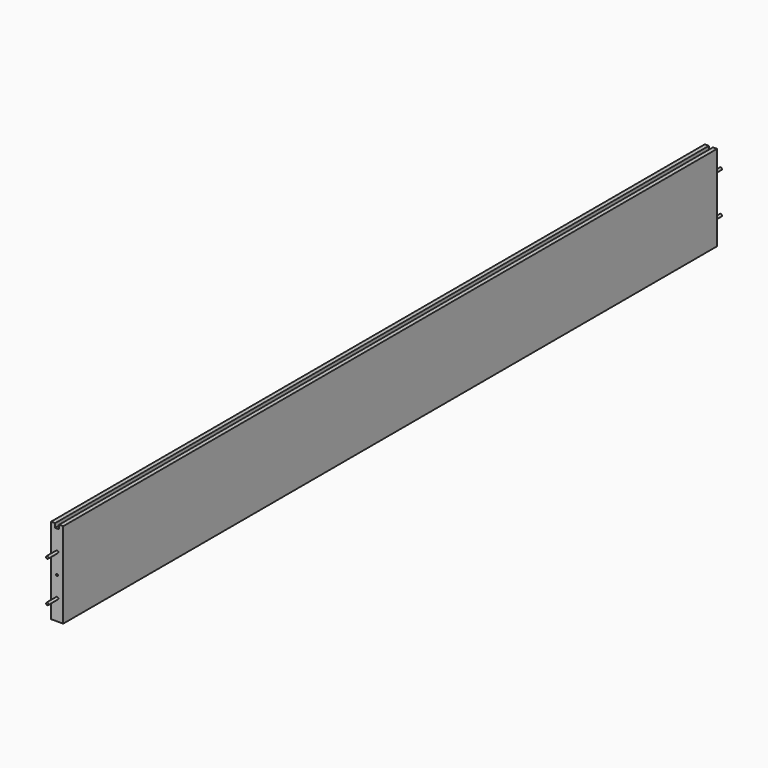
from build123d import *

# Parameters (mm, degrees)
F0_W      = 2000
F0_H      = 200
F1_DEPTH  = 30
F2_W      = 10
F2_H      = 10
F3_DEPTH  = 2000
F5_R      = 3
F6_DEPTH  = 30
F7_R      = 3
F8_DEPTH  = 30
F4_W      = 10
F4_H      = 10
F9_DEPTH  = 2000
F11_D     = 5.1054
F11_DEPTH = 30
F11_TIP   = 1.5338169022
F13_D     = 5.1054
F13_DEPTH = 30
F13_TIP   = 1.5338169022


with BuildPart() as f1:
    # F0 (on Right) → F1 (new body)
    with BuildSketch(Plane.YZ):
        Rectangle(F0_W, F0_H)
    extrude(amount=F1_DEPTH)

    # F2 (on face) → F3 (join)
    with BuildSketch(Plane.XZ.offset(1000)):
        with Locations((5, 105)):
            Rectangle(F2_W, F2_H)
    extrude(amount=-F3_DEPTH)

    # F5 (on face) → F6 (join)
    with BuildSketch(Plane(origin=(0, 1000, 0), x_dir=(-1, 0, 0), z_dir=(0, 1, 0))):
        with Locations((-15, -50)):
            Circle(F5_R)
        with Locations((-15, 50.2506281447)):
            Circle(F5_R)
    extrude(amount=F6_DEPTH)

    # F7 (on face) → F8 (join)
    with BuildSketch(Plane.XZ.offset(1000)):
        with Locations((15, 50)):
            Circle(F7_R)
        with Locations((15, -50)):
            Circle(F7_R)
    extrude(amount=F8_DEPTH)

    # F4 (on face) → F9 (join)
    with BuildSketch(Plane.XZ.offset(1000)):
        with Locations((25, 105)):
            Rectangle(F4_W, F4_H)
    extrude(amount=-F9_DEPTH)

    # F11
    with Locations(Plane.XZ.offset(1000)):
        with Locations((15, 0)):
            Hole(F11_D / 2, depth=F11_DEPTH)
            with Locations((0, 0, -(F11_DEPTH + F11_TIP / 2))):  # 118° drill point
                Cone(0, F11_D / 2, F11_TIP, mode=Mode.SUBTRACT)

    # F13
    with Locations(Plane(origin=(0, 1000, 0), x_dir=(-1, 0, 0), z_dir=(0, 1, 0))):
        with Locations((-15, 0)):
            Hole(F13_D / 2, depth=F13_DEPTH)
            with Locations((0, 0, -(F13_DEPTH + F13_TIP / 2))):  # 118° drill point
                Cone(0, F13_D / 2, F13_TIP, mode=Mode.SUBTRACT)


solid = f1.part
